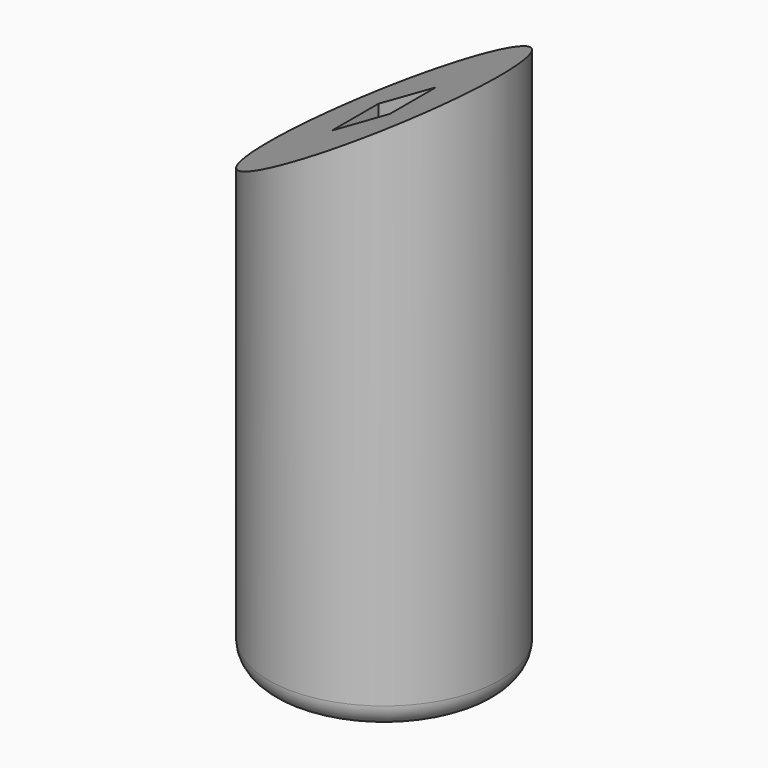
from build123d import *

# Parameters (mm, degrees)
F0_R          = 5
F0_W          = 2.5
F0_H          = 2.5
F1_DEPTH      = 25
F2_DEPTH      = 4
F3_R          = 1
F5_DEPTH      = 25
F5_DEPTH_BACK = 25


with BuildPart() as f1:
    # F0 (on Top) → F1 (new body)
    with BuildSketch(Plane.XY):
        Circle(F0_R)
        Rectangle(F0_W, F0_H, mode=Mode.SUBTRACT)
    extrude(amount=F1_DEPTH)

    # F0 (on Top) → F2 (join)
    with BuildSketch(Plane.XY):
        Rectangle(F0_W, F0_H)
    extrude(amount=F2_DEPTH)

    # F3
    f3_edges = [f1.edges().sort_by_distance(p)[0] for p in [
        (-5, 0, 0),
    ]]
    fillet(f3_edges, radius=F3_R)

    # F4 (on Front) → F5 (cut, two sides)
    with BuildSketch(Plane.XZ) as f5_sk:
        Polygon((-9.264733, 30.193007), (-9.264733, 15.788589), (12.869327, 28.567694), (-3.567463, 35.245303), align=None)
    extrude(amount=F5_DEPTH, mode=Mode.SUBTRACT)
    extrude(f5_sk.sketch, amount=-F5_DEPTH_BACK, mode=Mode.SUBTRACT)


solid = f1.part
